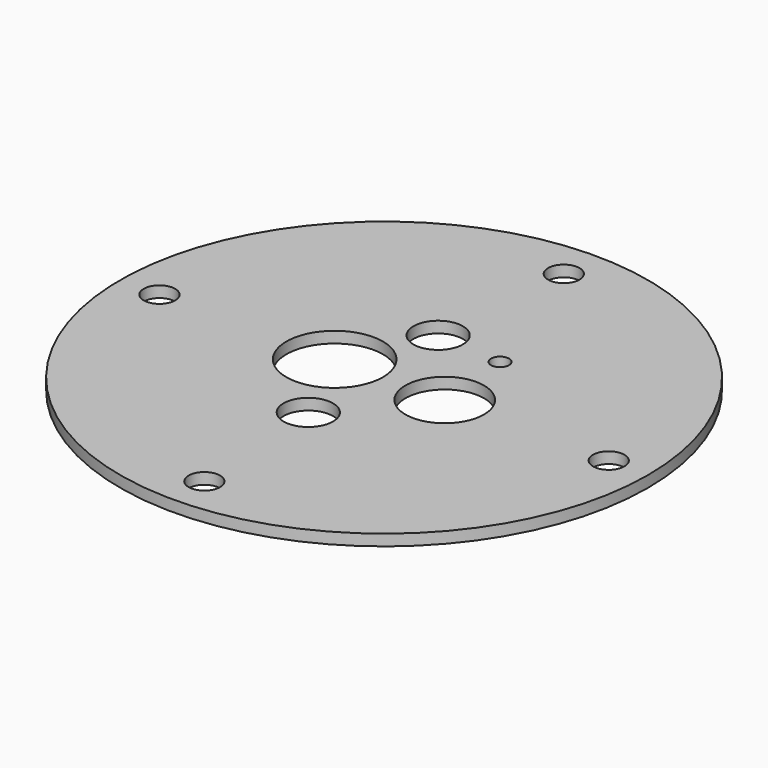
from build123d import *

# Parameters (mm, degrees)
F0_R     = 117.5
F0_R_2   = 11
F0_R_3   = 21.5
F0_R_4   = 17.5
F1_DEPTH = 5
F2_R     = 7
F3_DEPTH = 5.001
F4_R     = 4
F5_DEPTH = 5.001


with BuildPart() as f1:
    # F0 (on Top) → F1 (new body)
    with BuildSketch(Plane.XY):
        Circle(F0_R)
        with Locations((-4.196429, -36.928568)):
            Circle(F0_R_2, mode=Mode.SUBTRACT)
        with Locations((-22, 0)):
            Circle(F0_R_3, mode=Mode.SUBTRACT)
        with Locations((-5.203568, 36.592856)):
            Circle(F0_R_2, mode=Mode.SUBTRACT)
        with Locations((27, 0)):
            Circle(F0_R_4, mode=Mode.SUBTRACT)
    extrude(amount=F1_DEPTH)

    # F2 (on face) → F3 (cut, through all)
    with BuildSketch(Plane(origin=(0, 0, 0), x_dir=(1, 0, 0), z_dir=(0, 0, -1))):
        with Locations((-100, 0)):
            Circle(F2_R)
        with Locations((0, 100)):
            Circle(F2_R)
        with Locations((100, 0)):
            Circle(F2_R)
        with Locations((0, -100)):
            Circle(F2_R)
    extrude(amount=-F3_DEPTH, mode=Mode.SUBTRACT)

    # F4 (on face) → F5 (cut, through all)
    with BuildSketch(Plane.XY.offset(5)):
        with Locations((24.09021, 34.404386)):
            Circle(F4_R)
    extrude(amount=-F5_DEPTH, mode=Mode.SUBTRACT)


solid = f1.part
